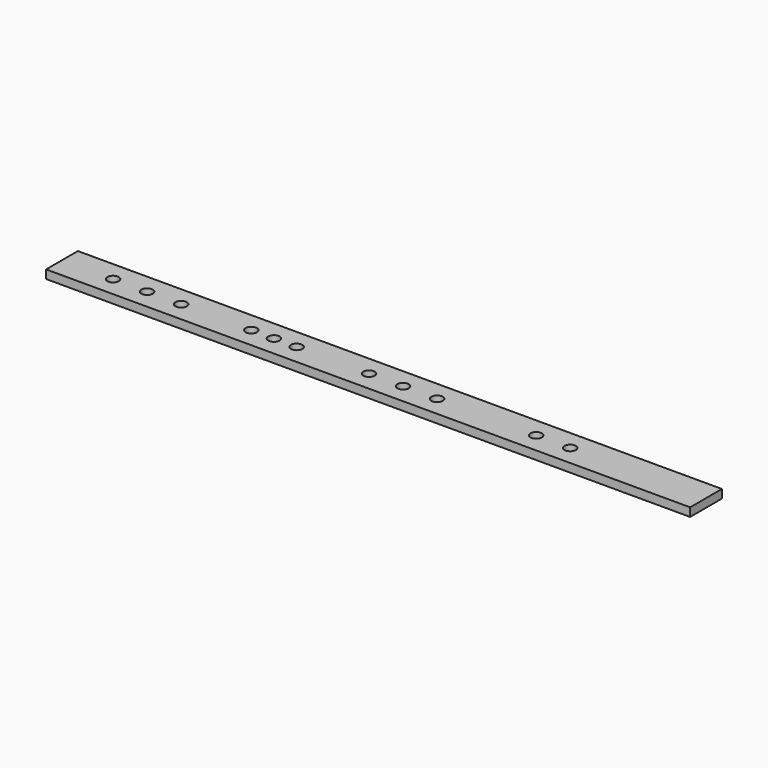
from build123d import *

# Parameters (mm, degrees)
F0_W     = 1441.45
F0_H     = 88.9
F0_R     = 12.7
F1_DEPTH = 19.05


with BuildPart() as f1:
    # F0 (on Top) → F1 (new body)
    with BuildSketch(Plane.XY):
        with Locations((-5092.357329, -23.573791)):
            Rectangle(F0_W, F0_H)
        with Locations((-5698.782329, -23.573791)):
            Circle(F0_R, mode=Mode.SUBTRACT)
        with Locations((-5622.582329, -23.573791)):
            Circle(F0_R, mode=Mode.SUBTRACT)
        with Locations((-5546.382329, -23.573791)):
            Circle(F0_R, mode=Mode.SUBTRACT)
        with Locations((-5389.431588, -23.573791)):
            Circle(F0_R, mode=Mode.SUBTRACT)
        with Locations((-5338.631588, -23.573791)):
            Circle(F0_R, mode=Mode.SUBTRACT)
        with Locations((-5287.831588, -23.573791)):
            Circle(F0_R, mode=Mode.SUBTRACT)
        with Locations((-5125.906588, -23.573791)):
            Circle(F0_R, mode=Mode.SUBTRACT)
        with Locations((-5049.706588, -23.573791)):
            Circle(F0_R, mode=Mode.SUBTRACT)
        with Locations((-4973.506588, -23.573791)):
            Circle(F0_R, mode=Mode.SUBTRACT)
        with Locations((-4751.828495, -23.573791)):
            Circle(F0_R, mode=Mode.SUBTRACT)
        with Locations((-4675.628495, -23.573791)):
            Circle(F0_R, mode=Mode.SUBTRACT)
    extrude(amount=F1_DEPTH)


solid = f1.part
